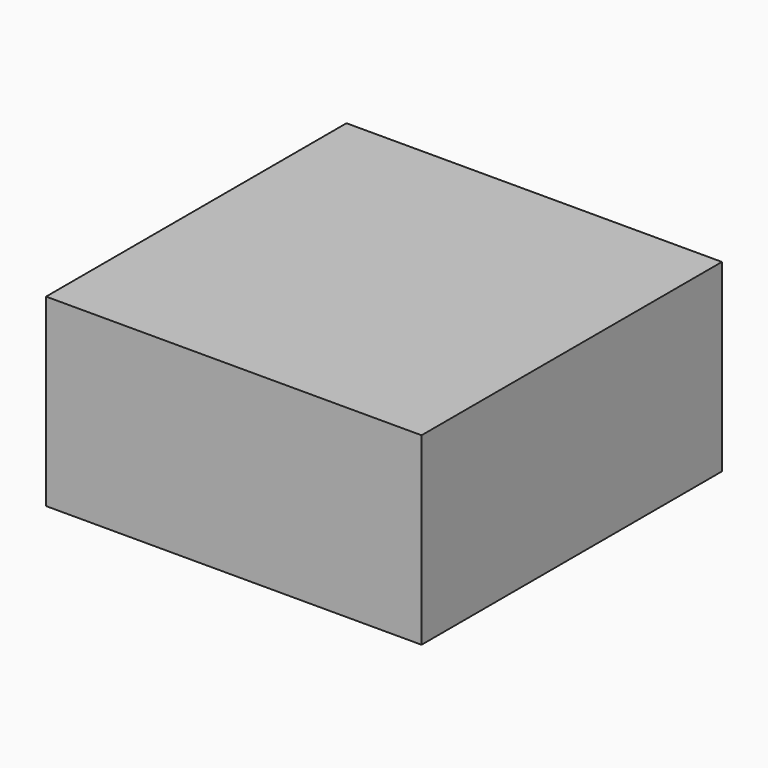
from build123d import *

# Parameters (mm, degrees)
F0_W     = 285
F0_H     = 285
F1_DEPTH = 70
F2_T     = -10


with BuildPart() as f1:
    # F0 (on Top) → F1 (new body, symmetric)
    with BuildSketch(Plane.XY):
        Rectangle(F0_W, F0_H)
    extrude(amount=F1_DEPTH, both=True)

    # F2
    f2_openings = [f1.faces().sort_by_distance(p)[0] for p in [
        (0, 0, -70),
    ]]
    offset(amount=F2_T, openings=f2_openings)


solid = f1.part
